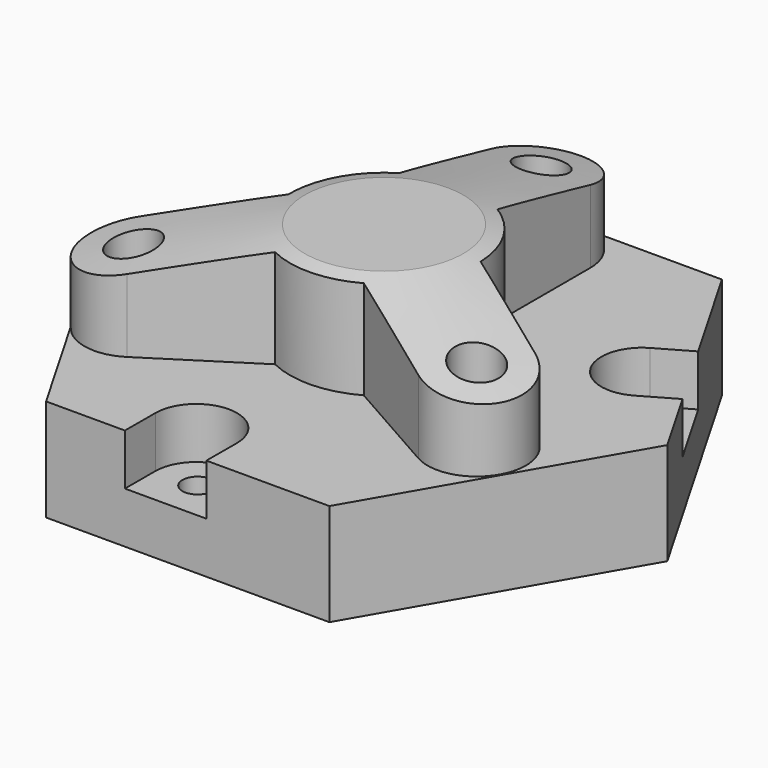
from build123d import *

# Parameters (mm, degrees)
PAD_DEPTH          = 10
POCKET_DEPTH       = 5
SKETCH002_R        = 1.481767
POCKET001_DEPTH    = 5
POLARPATTERN_COUNT = 3
SKETCH003_R        = 2.332395
PAD001_DEPTH       = 10


with BuildPart() as part:
    # Sketch → Pad (new body)
    with BuildSketch(Plane.XY):
        Polygon((13.856406, -24), (27.712813, 0), (13.856406, 24), (-13.856406, 24), (-27.712813, 0), (-13.856406, -24), align=None)
    extrude(amount=PAD_DEPTH)

    # Sketch001 (on Face8 of Pad) → Pocket (cut)
    with BuildSketch(Plane.XY.offset(10)):
        with BuildLine():
            ThreePointArc((-18.488317, 8.556219), (-13.038939, 9.994402), (-14.477122, 15.443781))
            Line((-14.477122, 15.443781), (-28.403704, 23.554379))
            ThreePointArc((-28.403704, 23.554379), (-33.853083, 22.116196), (-32.4149, 16.666817))
            Line((-32.4149, 16.666817), (-18.488317, 8.556219))
        make_face()
    pocket = extrude(amount=-POCKET_DEPTH, mode=Mode.SUBTRACT)

    # Sketch002 (on Face12 of Pocket) → Pocket001 (cut)
    with BuildSketch(Plane.XY.offset(5)):
        with Locations((-16.379377, 11.911345)):
            Circle(SKETCH002_R)
    pocket001 = extrude(amount=-POCKET001_DEPTH, mode=Mode.SUBTRACT)

    # PolarPattern: Pocket001, Pocket ×3 about axis
    polarpattern_axis = Axis((0, 0, 5), (0, 0, 1))
    for i in range(1, POLARPATTERN_COUNT):
        add(pocket001.rotate(polarpattern_axis, i * 360 / POLARPATTERN_COUNT), mode=Mode.SUBTRACT)
        add(pocket.rotate(polarpattern_axis, i * 360 / POLARPATTERN_COUNT), mode=Mode.SUBTRACT)

    # Sketch003 (on Face5 of PolarPattern) → Pad001 (join)
    with BuildSketch(Plane.XY.offset(10)):
        with BuildLine():
            ThreePointArc((-4.035282, -8.27825), (0.242823, -9.206191), (4.466063, -8.054017))
            Line((4.466063, -8.054017), (14.220197, -13.581932))
            ThreePointArc((14.220197, -13.581932), (20.76966, -11.770691), (18.958419, -5.221228))
            Line((18.958419, -5.221228), (9.204285, 0.306686))
            ThreePointArc((9.204285, 0.306686), (7.957073, 4.636583), (4.805, 7.856519))
            Line((4.805, 7.856519), (4.805, 19.21837))
            ThreePointArc((4.805, 19.21837), (0, 24.02337), (-4.805, 19.21837))
            Line((-4.805, 19.21837), (-4.805, 7.856519))
            ThreePointArc((-4.805, 7.856519), (-8.076559, 4.425168), (-9.207654, -0.178949))
            Line((-9.207654, -0.178949), (-18.801422, -6.305717))
            ThreePointArc((-18.801422, -6.305717), (-20.264886, -12.941553), (-13.62905, -14.405017))
            Line((-13.62905, -14.405017), (-4.035282, -8.27825))
        make_face()
        with Locations((0, 19.21837)):
            Circle(SKETCH003_R, mode=Mode.SUBTRACT)
        with Locations((-16.215236, -10.355367)):
            Circle(SKETCH003_R, mode=Mode.SUBTRACT)
        with Locations((16.589308, -9.40158)):
            Circle(SKETCH003_R, mode=Mode.SUBTRACT)
    extrude(amount=PAD001_DEPTH)

    # Sketch005 → Groove (revolve, cut)
    with BuildSketch(Plane.YZ):
        Polygon((0, 21.841362), (31.185255, 14.444732), (30.454723, 21.841362), align=None)
    revolve(axis=Axis((0, 0, 0), (0, 0, 1)), mode=Mode.SUBTRACT)


solid = part.part
